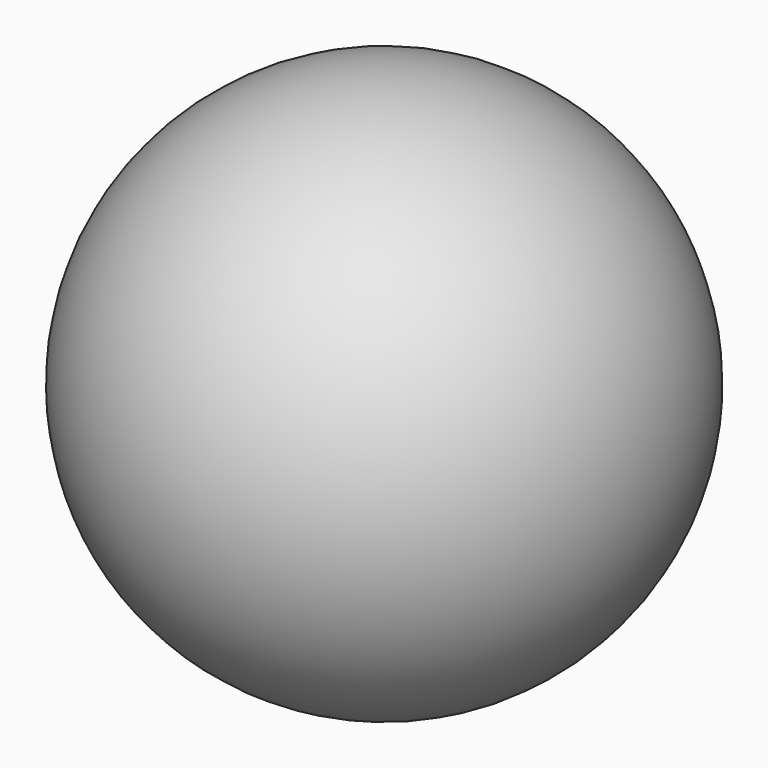
from build123d import *

# Parameters (mm, degrees)
F4_R     = 3.175
F5_DEPTH = 76.2


with BuildPart() as f2:
    # F1 (on Top) → F2 (revolve)
    with BuildSketch(Plane.XY):
        with BuildLine():
            Line((0, -19.05), (0, 19.05))
            ThreePointArc((0, 19.05), (-19.05, 0), (0, -19.05))
        make_face()
    revolve(axis=Axis((0, 0, 0), (0, -1, 0)))


with BuildPart() as f5:
    # F4 (on offset) → F5 (new body)
    with BuildSketch(Plane.XZ.offset(-3.175)):
        Circle(F4_R)
    extrude(amount=-F5_DEPTH)


with BuildPart() as f2_1:
    add(f2.part)

    # F6: cut F5
    add(f5.part, mode=Mode.SUBTRACT)


solid = f2_1.part
